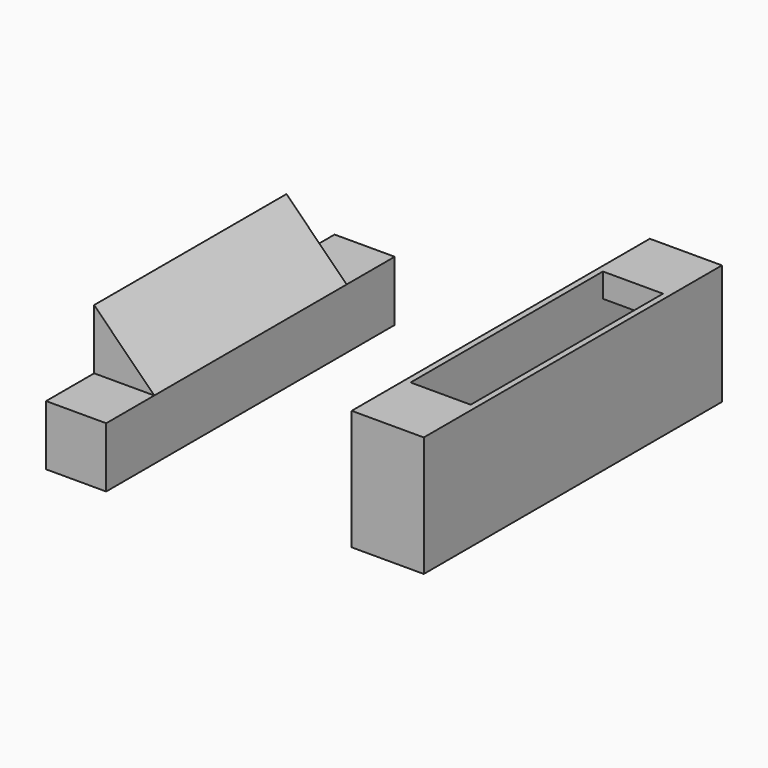
from build123d import *

# Parameters (mm, degrees)
F0_W      = 6.35
F0_H      = 25.4
F1_DEPTH  = 12.7
F3_DEPTH  = 25.4
F0_W_2    = 7.62
F0_H_2    = 39.37
F4_DEPTH  = 12.7
F5_T      = -0.635
F6_W      = 6.35
F6_H      = 6.35
F7_DEPTH  = 6.35
F8_W      = 6.35
F8_H      = 6.35
F9_DEPTH  = 6.35
F10_W     = 6.35
F10_H     = 2.54
F11_DEPTH = 6.35
F12_W     = 6.35
F12_H     = 1.80901
F13_DEPTH = 6.35


with BuildPart() as f1:
    # F0 (on Top) → F1 (new body)
    with BuildSketch(Plane.XY):
        with Locations((3.175, -12.7)):
            Rectangle(F0_W, F0_H)
    extrude(amount=F1_DEPTH)

    # F2 (on face) → F3 (cut, through all)
    with BuildSketch(Plane.XZ.offset(25.4)):
        Polygon((0, 12.7), (6.35, 6.35), (6.35, 12.7), align=None)
    extrude(amount=-F3_DEPTH, mode=Mode.SUBTRACT)

    # F6 (on face) → F7 (join)
    with BuildSketch(Plane.XZ.offset(25.4)):
        with Locations((3.175, 3.175)):
            Rectangle(F6_W, F6_H)
    extrude(amount=F7_DEPTH)

    # F8 (on face) → F9 (join)
    with BuildSketch(Plane(origin=(0, 0, 0), x_dir=(-1, 0, 0), z_dir=(0, 1, 0))):
        with Locations((-3.175, 3.175)):
            Rectangle(F8_W, F8_H)
    extrude(amount=F9_DEPTH)


with BuildPart() as f4:
    # F0 (on Top) → F4 (new body)
    with BuildSketch(Plane.XY):
        with Locations((32.203595, -7.200366)):
            Rectangle(F0_W_2, F0_H_2)
    extrude(amount=F4_DEPTH)

    # F5
    f5_openings = [f4.faces().sort_by_distance(p)[0] for p in [
        (32.203595, -7.200366, 12.7),
    ]]
    offset(amount=F5_T, openings=f5_openings)

    # F10 (on face) → F11 (join)
    with BuildSketch(Plane.XZ.offset(-11.849634)):
        with Locations((32.203595, 11.43)):
            Rectangle(F10_W, F10_H)
    extrude(amount=F11_DEPTH)

    # F12 (on face) → F13 (join)
    with BuildSketch(Plane(origin=(0, -26.250366, 0), x_dir=(-1, 0, 0), z_dir=(0, 1, 0))):
        with Locations((-32.203595, 11.795495)):
            Rectangle(F12_W, F12_H)
    extrude(amount=F13_DEPTH)


solid = Compound([f1.part, f4.part])
